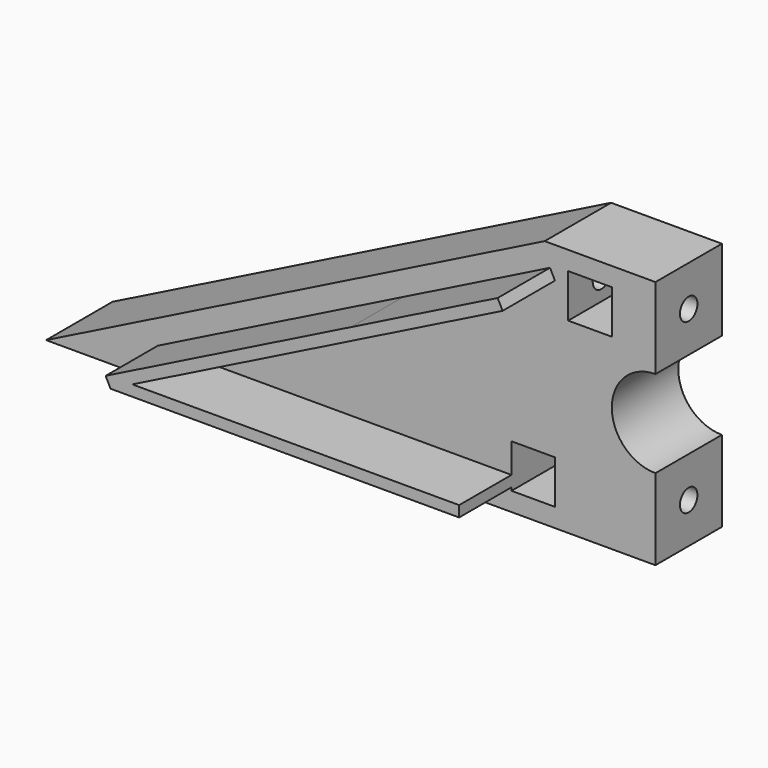
from build123d import *

# Parameters (mm, degrees)
F0_W     = 10
F0_H     = 10
F1_DEPTH = 19.05
F3_DEPTH = 15
F5_D     = 5
F5_DEPTH = 30
F5_TIP   = 1.5021515476
F6_W     = 10
F6_H     = 10
F7_DEPTH = 1.5
F9_D     = 5
F9_DEPTH = 25
F9_TIP   = 1.5021515476


with BuildPart() as f1:
    # F0 (on Front) → F1 (new body)
    with BuildSketch(Plane.XZ):
        with BuildLine():
            Line((44.45, 57.15), (-69.85, 0))
            Line((-69.85, 0), (69.85, 0))
            Line((69.85, 0), (69.85, 18.575))
            ThreePointArc((69.85, 18.575), (59.85, 28.575), (69.85, 38.575))
            Line((69.85, 38.575), (69.85, 57.15))
            Line((69.85, 57.15), (44.45, 57.15))
        make_face()
        with Locations((41.85, 9.2875)):
            Rectangle(F0_W, F0_H, mode=Mode.SUBTRACT)
        with Locations((54.85, 47.8625)):
            Rectangle(F0_W, F0_H, mode=Mode.SUBTRACT)
    extrude(amount=F1_DEPTH)

    # F2 (on face) → F3 (join)
    with BuildSketch(Plane.XZ.offset(19.05)):
        Polygon((45.6853015441, 52.1774808283), (12.0671401638, 35.3684001382), (-44.1975241575, 7.2360679775), (-43.0794901688, 5), (36.85, 5), (36.85, 7.5), (36.7782227695, 7.5), (-38.0794901688, 7.5), (13.1851741526, 33.1323321607), (46.8033355329, 49.9414128508), align=None)
    extrude(amount=F3_DEPTH)

    # F5
    with Locations(Plane.YZ.offset(69.85)):
        with Locations((-9.525, 9.2875)):
            Hole(F5_D / 2, depth=F5_DEPTH)
            with Locations((0, 0, -(F5_DEPTH + F5_TIP / 2))):  # 118° drill point
                Cone(0, F5_D / 2, F5_TIP, mode=Mode.SUBTRACT)

    # F9
    with Locations(Plane.YZ.offset(69.85)):
        with Locations((-9.525, 47.8625)):
            Hole(F9_D / 2, depth=F9_DEPTH)
            with Locations((0, 0, -(F9_DEPTH + F9_TIP / 2))):  # 118° drill point
                Cone(0, F9_D / 2, F9_TIP, mode=Mode.SUBTRACT)


with BuildPart() as f7:
    # F6 (on face) → F7 (new body)
    with BuildSketch(Plane(origin=(0, 0, 0), x_dir=(-1, 0, 0), z_dir=(0, 1, 0))):
        with Locations((-41.85, 9.2875)):
            Rectangle(F6_W, F6_H)
    extrude(amount=-F7_DEPTH)


solid = Compound([f1.part, f7.part])
